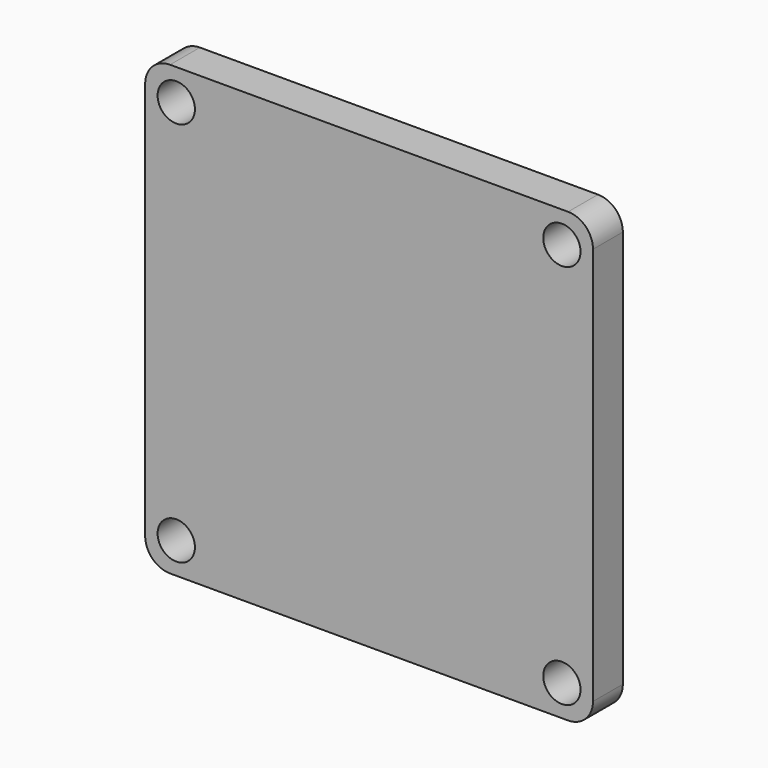
from build123d import *

# Parameters (mm, degrees)
F0_W     = 36
F0_H     = 36
F0_R     = 1.5
F1_DEPTH = 3
F2_R     = 2


with BuildPart() as f1:
    # F0 (on Front) → F1 (new body)
    with BuildSketch(Plane.XZ):
        Rectangle(F0_W, F0_H)
        with Locations((-15.5, -15.5)):
            Circle(F0_R, mode=Mode.SUBTRACT)
        with Locations((15.5, -15.5)):
            Circle(F0_R, mode=Mode.SUBTRACT)
        with Locations((-15.5, 15.5)):
            Circle(F0_R, mode=Mode.SUBTRACT)
        with Locations((15.5, 15.5)):
            Circle(F0_R, mode=Mode.SUBTRACT)
    extrude(amount=F1_DEPTH)

    # F2
    f2_edges = [f1.edges().sort_by_distance(p)[0] for p in [
        (-18, -1.5, 18),
        (-18, -1.5, -18),
        (18, -1.5, -18),
        (18, -1.5, 18),
    ]]
    fillet(f2_edges, radius=F2_R)


solid = f1.part
